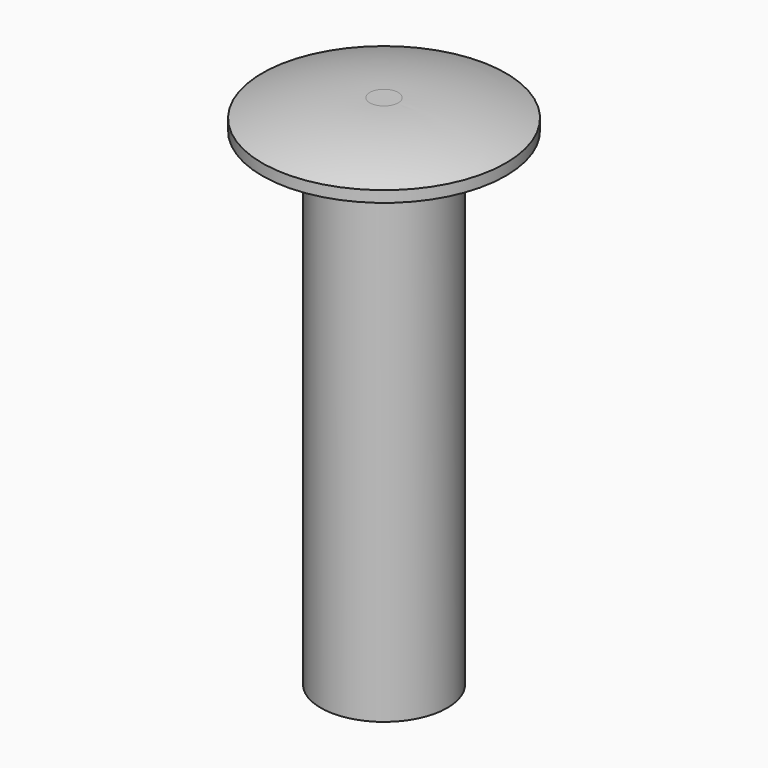
from build123d import *

# Parameters (mm, degrees)
F2_R     = 1.3
F3_DEPTH = 10


with BuildPart() as f1:
    # F0 (on Front) → F1 (revolve)
    with BuildSketch(Plane.XZ):
        with BuildLine():
            Line((0, 0.6), (0, 0))
            Line((0, 0), (2.5, 0))
            Line((2.5, 0), (2.5, 0.229979))
            ThreePointArc((2.5, 0.229979), (1.410936, 0.506855), (0.291095, 0.6))
            Line((0.291095, 0.6), (0, 0.6))
        make_face()
    revolve(axis=Axis((0, 0, 0.3), (0, 0, 1)))

    # F2 (on face) → F3 (join)
    with BuildSketch(Plane(origin=(0, 0, 0), x_dir=(1, 0, 0), z_dir=(0, 0, -1))):
        Circle(F2_R)
    extrude(amount=F3_DEPTH)


solid = f1.part
